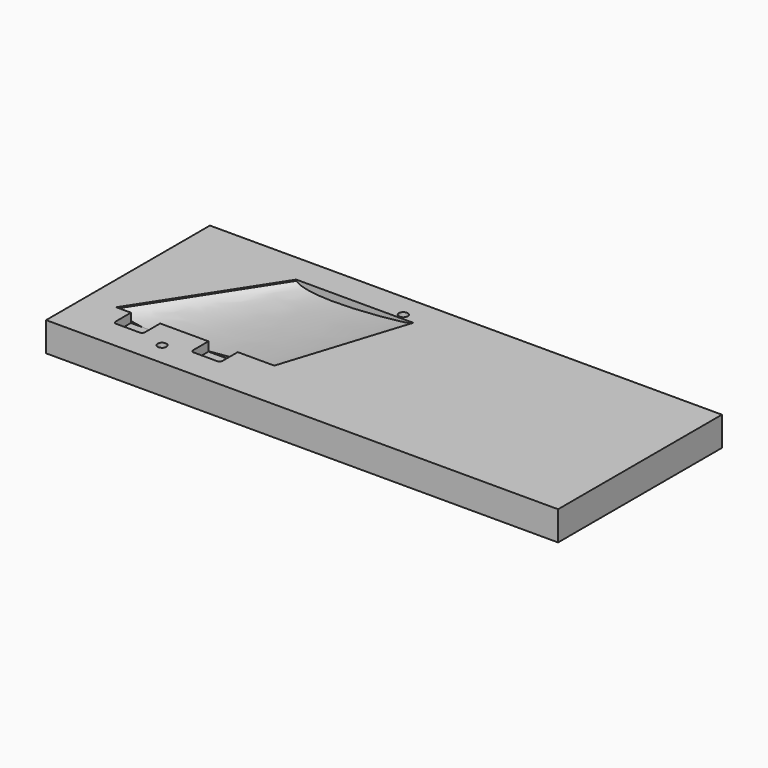
from build123d import *

# Parameters (mm, degrees)
F0_W     = 350
F0_H     = 140
F1_DEPTH = 20
F9_DEPTH = 6.2
F11_D    = 6


with BuildPart() as f1:
    # F0 (on Top) → F1 (new body)
    with BuildSketch(Plane.XY):
        with Locations((175, 70)):
            Rectangle(F0_W, F0_H)
    extrude(amount=-F1_DEPTH)

    # F4 (on plane+point) → F7 section 0
    with BuildSketch(Plane.XZ.offset(-35)):
        with BuildLine():
            Line((128, 0), (20, 0))
            Line((20, 0), (20, -0.8))
            add(Edge.make_bspline(
                [(20, -0.8), (33.539250493, -13.4811280295), (116.6631821028, -3.1675355221), (128, -0.8)],
                knots=[0, 0, 0, 0, 108, 108, 108, 108], degree=3))
            Line((128, -0.8), (128, 0))
        make_face()
    # F6 (on plane+point) → F7 section 1
    with BuildSketch(Plane.XZ.offset(-120)):
        with BuildLine():
            Line((155, 0), (75, 0))
            Line((75, 0), (75, -0.8))
            add(Edge.make_bspline(
                [(75, -0.8), (83.8186404567, -8.6791180032), (137.2789575916, -3.563235641), (155, -0.8)],
                knots=[0, 0, 0, 0, 80, 80, 80, 80], degree=3))
            Line((155, -0.8), (155, 0))
        make_face()
    loft(mode=Mode.SUBTRACT)

    # F8 (on Top) → F9 (cut)
    with BuildSketch(Plane.XY):
        with BuildLine():
            Line((50, 35), (30, 35))
            Line((30, 35), (30, 22))
            ThreePointArc((30, 22), (30.5857864376, 20.5857864376), (32, 20))
            Line((32, 20), (48, 20))
            ThreePointArc((48, 20), (49.4142135624, 20.5857864376), (50, 22))
            Line((50, 22), (50, 35))
        make_face()
        with BuildLine():
            Line((103, 35), (83, 35))
            Line((83, 35), (83, 22))
            ThreePointArc((83, 22), (83.5857864376, 20.5857864376), (85, 20))
            Line((85, 20), (101, 20))
            ThreePointArc((101, 20), (102.4142135624, 20.5857864376), (103, 22))
            Line((103, 22), (103, 35))
        make_face()
    extrude(amount=-F9_DEPTH, mode=Mode.SUBTRACT)

    # F11 (through all)
    with Locations(Plane.XY):
        with Locations((66.5, 16), (145, 124)):
            Hole(F11_D / 2)


solid = f1.part
